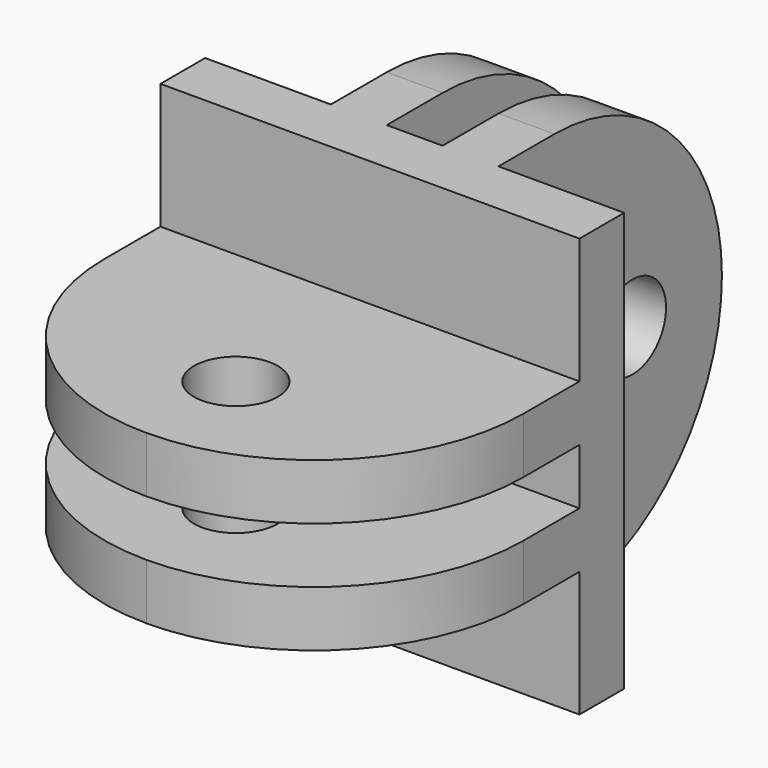
from build123d import *

# Parameters (mm, degrees)
F0_W      = 30
F0_H      = 30
F1_DEPTH  = 4
F2_W      = 4
F2_H      = 30
F3_DEPTH  = 20
F5_DEPTH  = 25
F6_R      = 3
F7_DEPTH  = 25
F8_W      = 30
F8_H      = 4
F9_DEPTH  = 20
F11_DEPTH = 25
F12_R     = 3
F13_DEPTH = 25


with BuildPart() as f1:
    # F0 (on Front) → F1 (new body)
    with BuildSketch(Plane.XZ):
        Rectangle(F0_W, F0_H)
    extrude(amount=F1_DEPTH)

    # F2 (on face) → F3 (join)
    with BuildSketch(Plane(origin=(0, 0, 0), x_dir=(-1, 0, 0), z_dir=(0, 1, 0))):
        with Locations((4, 0)):
            Rectangle(F2_W, F2_H)
        with Locations((-4, 0)):
            Rectangle(F2_W, F2_H)
    extrude(amount=F3_DEPTH)

    # F4 (on face) → F5 (cut)
    with BuildSketch(Plane(origin=(-6, 0, 0), x_dir=(0, -1, 0), z_dir=(-1, 0, 0))):
        with BuildLine():
            ThreePointArc((-5, -15), (-15.606602, -10.606602), (-20, 0))
            Line((-20, 0), (-20, -15))
            Line((-20, -15), (-5, -15))
        make_face()
        with BuildLine():
            Line((-5, 15), (-20, 15))
            Line((-20, 15), (-20, 0))
            ThreePointArc((-20, 0), (-15.606602, 10.606602), (-5, 15))
        make_face()
    extrude(amount=-F5_DEPTH, mode=Mode.SUBTRACT)

    # F6 (on face) → F7 (cut)
    with BuildSketch(Plane(origin=(-6, 0, 0), x_dir=(0, -1, 0), z_dir=(-1, 0, 0))):
        with Locations((-12, 0)):
            Circle(F6_R)
    extrude(amount=-F7_DEPTH, mode=Mode.SUBTRACT)

    # F8 (on face) → F9 (join)
    with BuildSketch(Plane.XZ.offset(4)):
        with Locations((0, 4)):
            Rectangle(F8_W, F8_H)
        with Locations((0, -4)):
            Rectangle(F8_W, F8_H)
    extrude(amount=F9_DEPTH)

    # F10 (on face) → F11 (cut)
    with BuildSketch(Plane.XY.offset(6)):
        with BuildLine():
            Line((-15, -24), (0, -24))
            ThreePointArc((0, -24), (-10.606602, -19.606602), (-15, -9))
            Line((-15, -9), (-15, -24))
        make_face()
        with BuildLine():
            ThreePointArc((15, -9), (10.606602, -19.606602), (0, -24))
            Line((0, -24), (15, -24))
            Line((15, -24), (15, -9))
        make_face()
    extrude(amount=-F11_DEPTH, mode=Mode.SUBTRACT)

    # F12 (on face) → F13 (cut)
    with BuildSketch(Plane.XY.offset(6)):
        with Locations((0, -16)):
            Circle(F12_R)
    extrude(amount=-F13_DEPTH, mode=Mode.SUBTRACT)


solid = f1.part
